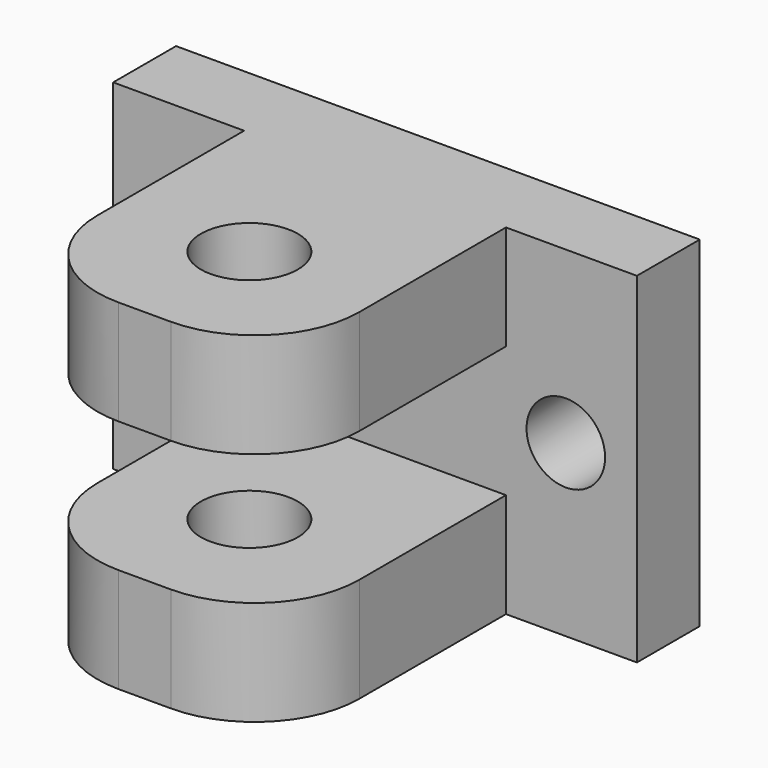
from build123d import *

# Parameters (mm, degrees)
F0_W     = 3.81
F0_H     = 16.51
F1_DEPTH = 25.4
F2_W     = 12.7
F2_H     = 5.08
F3_DEPTH = 13.97
F4_R     = 5.08
F6_DEPTH = 25.4
F7_R     = 1.905
F8_DEPTH = 25.4


with BuildPart() as f1:
    # F0 (on Right) → F1 (new body)
    with BuildSketch(Plane.YZ):
        with Locations((-1.905, -8.255)):
            Rectangle(F0_W, F0_H)
    extrude(amount=F1_DEPTH)

    # F2 (on face) → F3 (join)
    with BuildSketch(Plane.XZ.offset(3.81)):
        Polygon((19.05, 0), (12.7, 0), (6.35, 0), (6.35, -5.08), (19.05, -5.08), align=None)
        with Locations((12.7, -13.97)):
            Rectangle(F2_W, F2_H)
    extrude(amount=F3_DEPTH)

    # F4
    f4_edges = [f1.edges().sort_by_distance(p)[0] for p in [
        (19.05, -17.78, -2.54),
        (6.35, -17.78, -2.54),
        (19.05, -17.78, -13.97),
        (6.35, -17.78, -13.97),
    ]]
    fillet(f4_edges, radius=F4_R)

    # F5 (on face) → F6 (cut)
    with BuildSketch(Plane.XY):
        with BuildLine():
            ThreePointArc((15.0495, -11.43), (11.038653, -9.768653), (12.7, -13.7795))
            ThreePointArc((12.7, -13.7795), (14.361347, -13.091347), (15.0495, -11.43))
        make_face()
    extrude(amount=-F6_DEPTH, mode=Mode.SUBTRACT)

    # F7 (on face) → F8 (cut)
    with BuildSketch(Plane.XZ.offset(3.81)):
        with Locations((3.407462, -8.255)):
            Circle(F7_R)
        with Locations((21.952828, -8.255)):
            Circle(F7_R)
    extrude(amount=-F8_DEPTH, mode=Mode.SUBTRACT)


solid = f1.part
